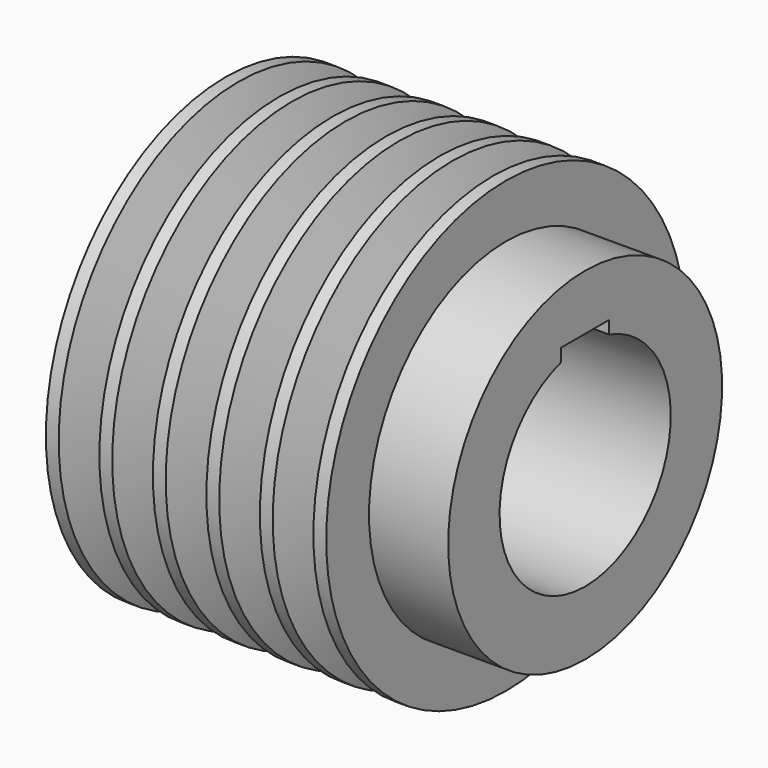
from build123d import *

# Parameters (mm, degrees)
F2_R     = 25
F3_DEPTH = 84
F5_DEPTH = 84


with BuildPart() as f1:
    # F0 (on Front) → F1 (revolve)
    with BuildSketch(Plane.XZ):
        Polygon((38.5438650846, 52.5), (38.5438650846, 0), (122.5438650846, 0), (122.5438650846, 40), (104.0438650846, 40), (104.0438650846, 52.5), (101.0438650846, 52.5), (97.7938650846, 42.5), (94.7938650846, 42.5), (91.5438650846, 52.5), (88.5438650846, 52.5), (85.2938650846, 42.5), (82.2938650846, 42.5), (79.0438650846, 52.5), (76.0438650846, 52.5), (72.7938650846, 42.5), (69.7938650846, 42.5), (66.5438650846, 52.5), (63.5438650846, 52.5), (60.2938650846, 42.5), (57.2938650846, 42.5), (54.0438650846, 52.5), (51.0438650846, 52.5), (47.7938650846, 42.5), (44.7938650846, 42.5), (41.5438650846, 52.5), align=None)
    revolve(axis=Axis((80.5438650846, 0, 0), (-1, 0, 0)))

    # F2 (on face) → F3 (cut)
    with BuildSketch(Plane.YZ.offset(122.5438650846)):
        Circle(F2_R)
    extrude(amount=-F3_DEPTH, mode=Mode.SUBTRACT)

    # F4 (on face) → F5 (cut)
    with BuildSketch(Plane.YZ.offset(122.5438650846)):
        with BuildLine():
            Line((-7, 27), (-7, 24))
            ThreePointArc((-7, 24), (0, 25), (7, 24))
            Line((7, 24), (7, 27))
            Line((7, 27), (-7, 27))
        make_face()
    extrude(amount=-F5_DEPTH, mode=Mode.SUBTRACT)


solid = f1.part
